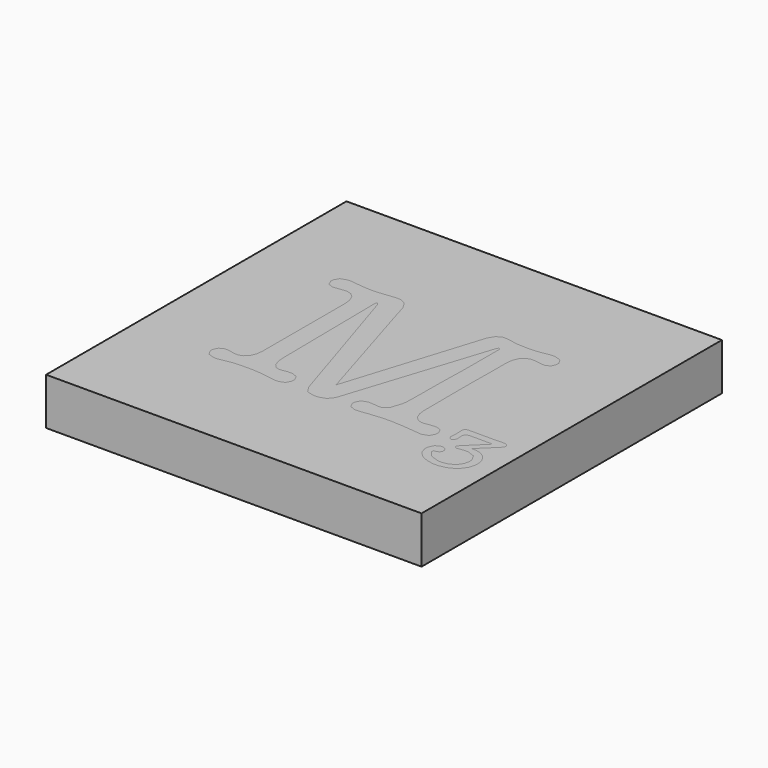
from build123d import *

# Parameters (mm, degrees)
F0_W     = 40
F0_H     = 40
F1_DEPTH = 5
F4_DEPTH = 3


with BuildPart() as f1:
    # F0 (on Top) → F1 (new body)
    with BuildSketch(Plane.XY):
        Rectangle(F0_W, F0_H)
    extrude(amount=-F1_DEPTH)


with BuildPart() as f4:
    # F2 (on Top) + F3 (on Top) → F4 (new body)
    with BuildSketch(Plane.XY):
        Polygon((-0.013081, -6.363081), (-4.087952, 7.024548), (-4.274007, 7.712177), (-4.331868, 7.928534), (-4.790745, 8.685098), (-5.435676, 9.008923), (-5.649265, 9.008923), (-5.927649, 9.008923), (-6.762699, 8.920734), (-6.906031, 8.902802), (-7.049338, 8.886292), (-7.928534, 8.798103), (-8.268919, 8.798103), (-8.565185, 8.798103), (-9.451289, 8.864244), (-9.565665, 8.87664), (-10.491699, 8.982735), (-10.531653, 8.988247), (-10.749382, 9.008923), (-10.834827, 9.008923), (-11.058068, 9.008923), (-11.72779, 8.777427), (-12.025452, 8.256524), (-12.025452, 8.08289), (-12.025452, 7.924419), (-11.821516, 7.448982), (-11.359871, 7.236765), (-11.205515, 7.236765), (-10.641914, 7.291883), (-10.570235, 7.302932), (-10.499979, 7.31393), (-10.094824, 7.369073), (-9.934981, 7.369073), (-9.787534, 7.369073), (-9.345168, 7.24502), (-8.923503, 6.872961), (-8.671306, 6.252845), (-8.58586, 5.602427), (-8.58586, 5.384698), (-8.58586, -5.252415), (-8.58586, -5.468722), (-8.671306, -6.120562), (-8.923503, -6.740677), (-9.345168, -7.112737), (-9.787534, -7.236765), (-9.934981, -7.236765), (-10.064496, -7.236765), (-10.451744, -7.169252), (-10.517886, -7.156831), (-10.584028, -7.143064), (-11.034649, -7.076923), (-11.205515, -7.076923), (-11.341938, -7.076923), (-11.748465, -7.286371), (-11.787048, -7.329094), (-11.827027, -7.370445), (-12.025452, -7.794879), (-12.025452, -7.950581), (-12.025452, -8.124215), (-11.722278, -8.645119), (-11.037392, -8.87664), (-10.80864, -8.87664), (-10.650169, -8.87664), (-10.633634, -8.871128), (-10.531653, -8.850452), (-10.491699, -8.850452), (-9.37961, -8.638235), (-9.309354, -8.624443), (-8.698865, -8.578977), (-7.801788, -8.559673), (-7.501357, -8.559673), (-7.187184, -8.559673), (-6.24045, -8.624443), (-6.152261, -8.638235), (-6.042025, -8.654771), (-5.00573, -8.810498), (-4.907864, -8.824265), (-4.84726, -8.832545), (-4.491711, -8.87664), (-4.352544, -8.87664), (-4.154094, -8.87664), (-3.558794, -8.645119), (-3.294202, -8.124215), (-3.294202, -7.950581), (-3.294202, -7.776947), (-3.553282, -7.256069), (-4.133418, -7.024548), (-4.326357, -7.024548), (-4.643298, -7.024548), (-4.727346, -7.041083), (-5.238598, -7.130669), (-5.437048, -7.130669), (-5.551449, -7.130669), (-5.891809, -7.009384), (-6.218403, -6.646977), (-6.420968, -6.043397), (-6.493993, -5.409489), (-6.495364, -5.198643), (-6.655257, 7.104482), (-6.655257, 7.144461), (-6.576695, 7.262952), (-6.549136, 7.262952), (-6.506413, 7.262952), (-6.376873, 7.132041), (-6.363081, 7.104482), (-1.574419, -8.002956), (-1.544117, -8.10354), (-1.114146, -8.777402), (-1.059028, -8.810498), (-1.003884, -8.843569), (-0.29558, -9.008923), (-0.040665, -9.008923), (0.196367, -9.008923), (0.911581, -8.756752), (1.388364, -8.169707), (1.442136, -8.002956), (6.309335, 7.104482), (6.321755, 7.132041), (6.429248, 7.262952), (6.469202, 7.262952), (6.502273, 7.262952), (6.601511, 7.144461), (6.601511, 7.104482), (6.601511, 2.420518), (6.547739, 0.039268), (6.542227, -0.237693), (6.527063, -1.428318), (6.521552, -2.231746), (6.521552, -2.500452), (6.521552, -2.952445), (6.507759, -4.312564), (6.477457, -5.12699), (6.469202, -5.198643), (6.429248, -5.529377), (6.051652, -6.686931), (5.47149, -7.183018), (5.278577, -7.183018), (5.129733, -7.183018), (4.686021, -7.138924), (4.589526, -7.130669), (4.567479, -7.125157), (4.291889, -7.104482), (4.192651, -7.104482), (3.994226, -7.104482), (3.398901, -7.327722), (3.134335, -7.833462), (3.134335, -8.002956), (3.134335, -8.165567), (3.392043, -8.657514), (3.972179, -8.87664), (4.166489, -8.87664), (4.358056, -8.87664), (4.934052, -8.809101), (5.014011, -8.796706), (5.202784, -8.765007), (6.799936, -8.612048), (7.395261, -8.612048), (7.746644, -8.612048), (8.803615, -8.664423), (10.185756, -8.788425), (10.490302, -8.824265), (10.564698, -8.832545), (10.887177, -8.87664), (11.099419, -8.87664), (11.74021, -8.638235), (12.025452, -8.102168), (12.025452, -7.924419), (12.025452, -7.764551), (11.813235, -7.287743), (11.336401, -7.076923), (11.177956, -7.076923), (11.029112, -7.076923), (10.586771, -7.121017), (10.490302, -7.130669), (10.436581, -7.143064), (10.053472, -7.209206), (9.908794, -7.209206), (9.76409, -7.209206), (9.329979, -7.085178), (8.916594, -6.713118), (8.668537, -6.093003), (8.585886, -5.441163), (8.585886, -5.224805), (8.558276, -1.045235), (8.558276, 1.203706), (8.585886, 3.532607), (8.585886, 5.384698), (8.585886, 5.602427), (8.669909, 6.252845), (8.922106, 6.872961), (9.343771, 7.24502), (9.786137, 7.369073), (9.934956, 7.369073), (10.072751, 7.369073), (10.487558, 7.31393), (10.556469, 7.302932), (10.623982, 7.291883), (11.022228, 7.236765), (11.177956, 7.236765), (11.336401, 7.236765), (11.813235, 7.448982), (12.025452, 7.924419), (12.025452, 8.08289), (12.025452, 8.256524), (11.719535, 8.777427), (11.034649, 9.008923), (10.807243, 9.008923), (10.730103, 9.008923), (10.502722, 8.988247), (10.490302, 8.982735), (9.564268, 8.824265), (9.4885, 8.81187), (8.631352, 8.744331), (8.321294, 8.744331), (8.04705, 8.744331), (7.227113, 8.789797), (7.156831, 8.798103), (7.006641, 8.798103), (6.557391, 8.908339), (6.469202, 8.930386), (6.397523, 8.944153), (5.952414, 9.008923), (5.780151, 9.008923), (5.647868, 9.008923), (5.46735, 9.008923), (4.927168, 8.731961), (4.513758, 8.084261), (4.457243, 7.898232), align=None)
    with BuildSketch(Plane.XY):
        Polygon((16.831253, -6.561267), (14.849621, -8.504291), (14.823459, -8.529081), (14.696663, -8.704087), (14.696663, -8.771626), (14.696663, -8.832255), (14.867554, -9.018285), (14.925415, -9.018285), (14.961254, -9.018285), (15.072862, -9.003147), (15.088026, -9.000378), (15.154167, -8.985214), (15.666816, -8.913535), (15.859729, -8.913535), (16.122949, -8.913535), (16.916699, -9.222247), (17.269479, -9.919528), (17.269479, -10.15242), (17.269479, -10.312263), (17.142683, -10.793212), (16.847789, -11.234181), (16.76374, -11.309975), (16.679666, -11.384397), (16.187693, -11.648963), (15.647512, -11.761968), (15.468365, -11.761968), (15.183123, -11.761968), (14.330115, -11.475329), (14.24467, -11.418839), (14.157852, -11.360952), (13.725138, -10.811119), (13.725138, -10.609925), (13.725138, -10.542412), (13.829888, -10.542412), (13.934612, -10.542412), (14.251553, -10.422524), (14.392117, -10.155164), (14.392117, -10.066975), (14.392117, -9.976017), (14.261205, -9.704568), (14.235018, -9.681123), (14.20883, -9.656333), (13.930472, -9.533676), (13.829888, -9.533676), (13.681044, -9.533676), (13.234562, -9.789988), (13.19184, -9.842363), (13.149142, -9.89334), (12.935528, -10.410103), (12.935528, -10.600273), (12.935528, -10.778048), (13.113303, -11.315486), (13.529456, -11.812945), (13.64937, -11.899763), (13.767861, -11.985208), (14.451375, -12.288383), (15.185867, -12.419294), (15.431154, -12.419294), (15.694375, -12.419294), (16.486728, -12.259427), (17.207453, -11.887367), (17.331481, -11.781272), (17.454112, -11.673779), (17.884083, -11.049523), (18.068716, -10.361869), (18.068716, -10.133116), (18.068716, -9.948458), (17.939176, -9.395881), (17.636001, -8.890117), (17.550607, -8.804722), (17.463789, -8.717905), (16.95805, -8.414705), (16.404076, -8.285165), (16.22079, -8.285165), (16.096761, -8.285165), (16.080226, -8.286562), (15.982385, -8.294817), (15.945174, -8.294817), (17.698028, -6.609476), (17.736611, -6.570893), (17.935061, -6.273256), (17.935061, -6.161623), (17.935061, -6.096853), (17.794523, -5.903915), (17.478928, -5.818495), (17.374204, -5.818495), (17.250175, -5.818495), (16.878091, -5.825353), (16.84088, -5.828147), (16.76374, -5.83089), (16.354444, -5.8474), (16.193205, -5.8474), (13.849166, -5.8474), (13.733418, -5.8474), (13.388918, -5.898428), (13.373754, -5.909427), (13.357219, -5.919104), (13.278657, -6.147831), (13.278657, -6.227765), (13.278657, -6.295303), (13.285566, -6.500612), (13.286937, -6.52403), (13.288309, -6.546078), (13.296589, -6.82309), (13.296589, -6.923674), (13.284169, -7.230963), (13.282797, -7.270943), (13.280054, -7.309525), (13.26903, -7.531394), (13.26903, -7.618212), (13.26903, -7.69398), (13.348939, -7.925526), (13.530853, -8.028853), (13.592855, -8.028853), (13.654882, -8.028853), (13.842283, -7.904851), (13.926331, -7.625095), (13.926331, -7.532766), (13.926331, -7.470765), (13.909796, -7.286107), (13.907053, -7.257151), (13.902913, -7.226848), (13.887749, -7.049074), (13.887749, -6.980189), (13.887749, -6.890603), (14.086199, -6.621897), (14.126153, -6.609476), (14.146829, -6.601221), (14.496841, -6.561267), (14.620869, -6.561267), align=None)
    extrude(amount=-F4_DEPTH)


solid = Compound([f1.part, f4.part])
